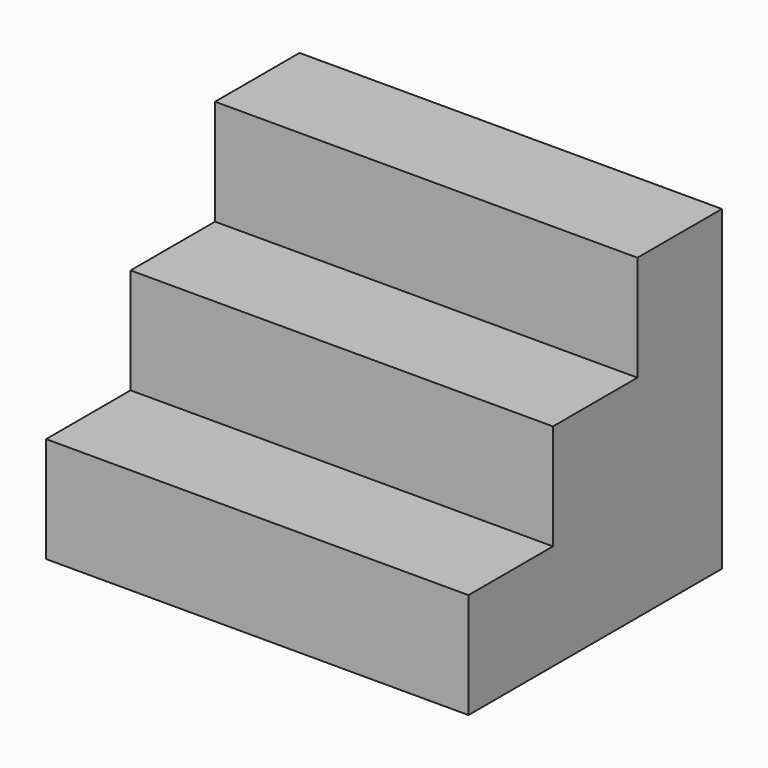
from build123d import *

# Parameters (mm, degrees)
F0_W     = 20
F0_H     = 5
F1_DEPTH = 15
F2_DEPTH = 10
F3_DEPTH = 5


with BuildPart() as f1:
    # F0 (on Front) → F1 (new body)
    with BuildSketch(Plane.XZ):
        with Locations((10, 2.5)):
            Rectangle(F0_W, F0_H)
    extrude(amount=F1_DEPTH)

    # F0 (on Front) → F2 (join)
    with BuildSketch(Plane.XZ):
        with Locations((10, 7.5)):
            Rectangle(F0_W, F0_H)
    extrude(amount=F2_DEPTH)

    # F0 (on Front) → F3 (join)
    with BuildSketch(Plane.XZ):
        with Locations((10, 12.5)):
            Rectangle(F0_W, F0_H)
    extrude(amount=F3_DEPTH)


solid = f1.part
